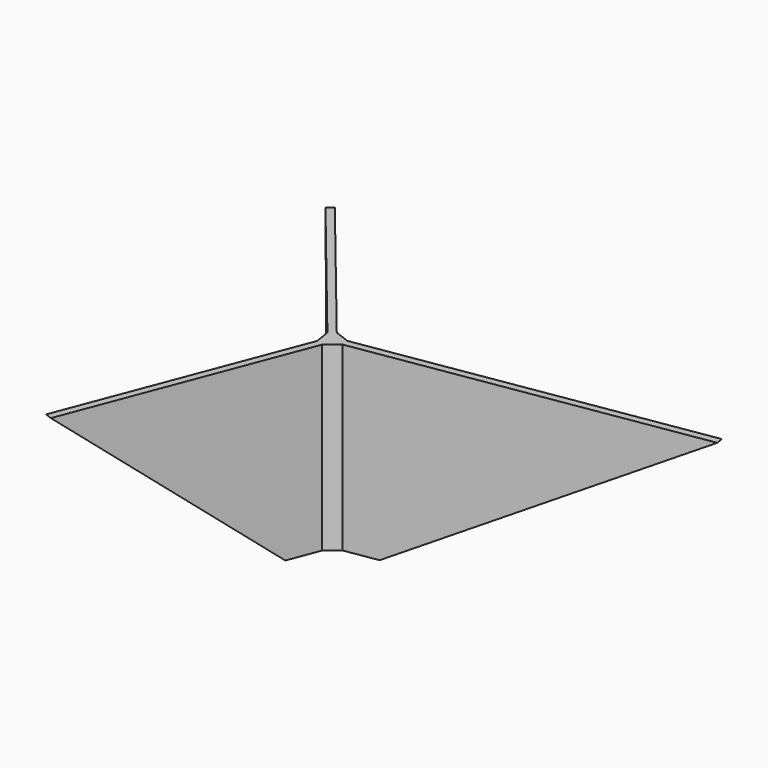
from build123d import *


with BuildPart() as f3:
    # F0 (on Top) → F3 section 0
    with BuildSketch(Plane.XY):
        Polygon((-3.46963, 3.623502), (-1.131267, 0.743016), (-0.843729, -1.058281), (-2.169121, -4.523606), (-1.403229, -4.816539), (-0.077837, -1.351214), (1.338362, -0.20155), (5.002119, 0.383289), (4.87286, 1.193037), (1.209104, 0.608198), (-0.494634, 1.259831), (-2.832997, 4.140317), align=None)
    # F2 (on offset) → F3 section 1
    with BuildSketch(Plane.XY.offset(20)):
        Polygon((-16.468799, 19.636379), (-1.525181, 1.228254), (-1.237643, -0.573042), (-11.065231, -26.267913), (-10.299339, -26.560845), (-0.471751, -0.865975), (0.944448, 0.283688), (38.183131, 6.228036), (38.053872, 7.037784), (0.81519, 1.093437), (-0.888548, 1.74507), (-15.832166, 20.153194), align=None)
    loft()


solid = f3.part
